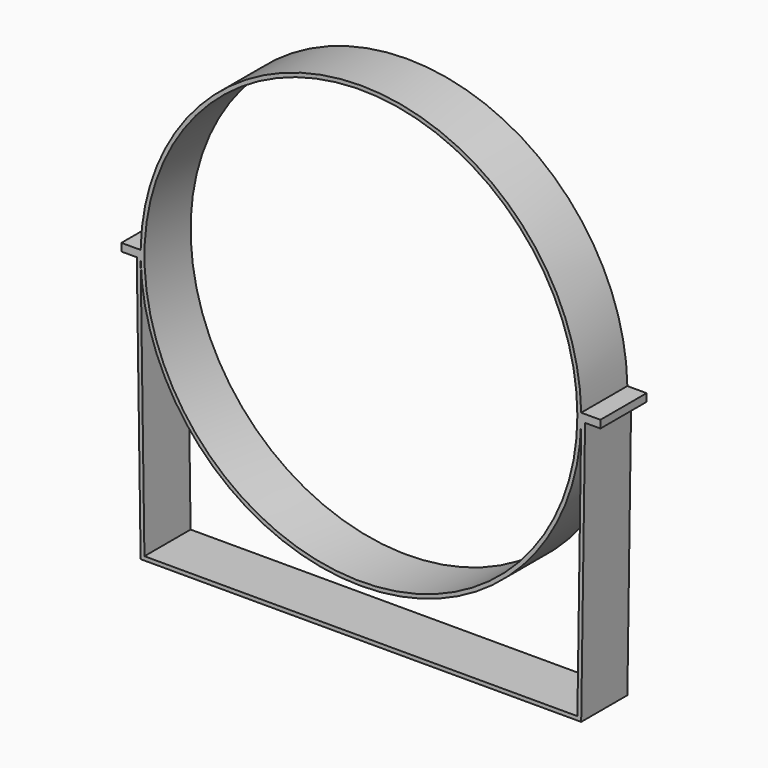
from build123d import *

# Parameters (mm, degrees)
F0_R     = 225
F1_DEPTH = 60


with BuildPart() as f1:
    # F0 (on Front) → F1 (new body)
    with BuildSketch(Plane.XZ):
        with BuildLine():
            ThreePointArc((228.965063, -4), (228.991266, -2.000076), (229, 0))
            ThreePointArc((229, 0), (228.991266, 2.000076), (228.965063, 4))
            ThreePointArc((228.965063, 4), (0, 229), (-228.965063, 4))
            ThreePointArc((-228.965063, 4), (-229, 0), (-228.965063, -4))
            ThreePointArc((-228.965063, -4), (0, -229), (228.965063, -4))
        make_face()
        Circle(F0_R, mode=Mode.SUBTRACT)
        with BuildLine():
            ThreePointArc((228.965063, 4), (228.991266, 2.000076), (229, 0))
            ThreePointArc((229, 0), (228.991266, -2.000076), (228.965063, -4))
            Line((228.965063, -4), (232.965486, -4))
            Line((232.965486, -4), (248.965063, -4))
            Line((248.965063, -4), (248.965063, 0))
            Line((248.965063, 0), (248.965063, 4))
            Line((248.965063, 4), (228.965063, 4))
        make_face()
        Polygon((232.965486, -4), (228.965063, -4), (225.022834, -274.970901), (-225.022834, -274.970901), (-228.965063, -4), (-232.965486, -4), (-228.965063, -278.970901), (228.965063, -278.970901), align=None)
        with BuildLine():
            ThreePointArc((-228.965063, -4), (-229, 0), (-228.965063, 4))
            Line((-228.965063, 4), (-248.965063, 4))
            Line((-248.965063, 4), (-248.965063, 0))
            Line((-248.965063, 0), (-248.965063, -4))
            Line((-248.965063, -4), (-232.965486, -4))
            Line((-232.965486, -4), (-228.965063, -4))
        make_face()
    extrude(amount=F1_DEPTH)


solid = f1.part
